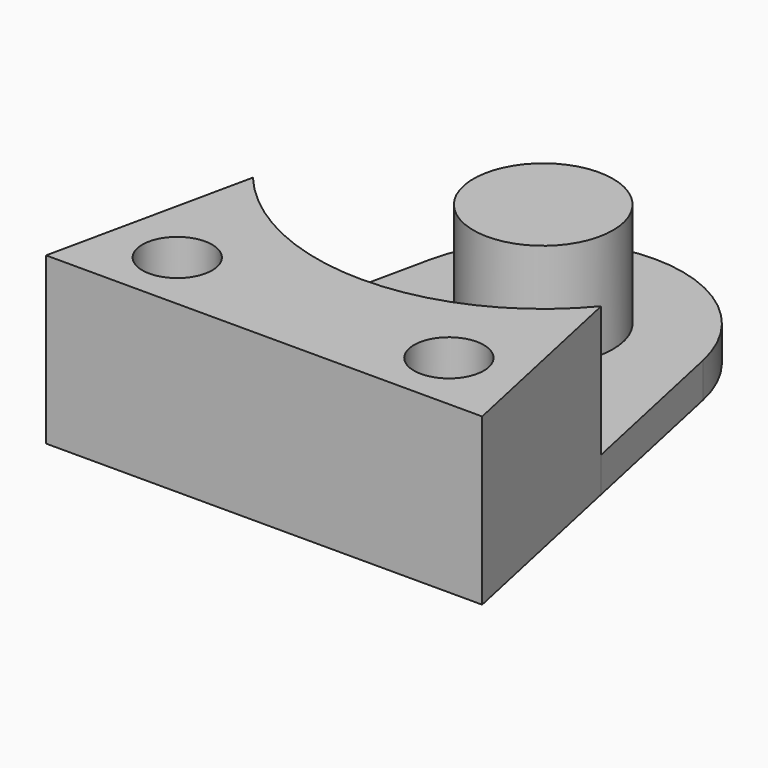
from build123d import *

# Parameters (mm, degrees)
F0_R     = 2
F1_DEPTH = 9.5
F0_R_2   = 4
F2_DEPTH = 8
F3_DEPTH = 2


with BuildPart() as f1:
    # F0 (on Top) → F1 (new body)
    with BuildSketch(Plane.XY):
        with BuildLine():
            Line((12.5, -20), (9.981460471, -8.3288922952))
            ThreePointArc((9.981460471, -8.3288922952), (0, -13), (-9.981460471, -8.3288922952))
            Line((-9.981460471, -8.3288922952), (-12.5, -20))
            Line((-12.5, -20), (0, -20))
            Line((0, -20), (12.5, -20))
        make_face()
        with Locations((-7.7868145891, -16.4918396622)):
            Circle(F0_R, mode=Mode.SUBTRACT)
        with Locations((7.7868145891, -16.4918396622)):
            Circle(F0_R, mode=Mode.SUBTRACT)
    extrude(amount=F1_DEPTH)



with BuildPart() as f2:
    # F0 (on Top) → F2 (new body)
    with BuildSketch(Plane.XY):
        Circle(F0_R_2)
    extrude(amount=F2_DEPTH)


with BuildPart() as f1_1:
    add(f1.part)

    add(f2.part)  # F3 merges F2
    # F0 (on Top) → F3 (join)
    with BuildSketch(Plane.XY):
        with BuildLine():
            Line((9.981460471, -8.3288922952), (7.8199968309, 1.6874980193))
            ThreePointArc((7.8199968309, 1.6874980193), (0, 8), (-7.8199968309, 1.6874980193))
            Line((-7.8199968309, 1.6874980193), (-9.981460471, -8.3288922952))
            ThreePointArc((-9.981460471, -8.3288922952), (0, -13), (9.981460471, -8.3288922952))
        make_face()
        Circle(F0_R_2, mode=Mode.SUBTRACT)
    extrude(amount=F3_DEPTH)


solid = f1_1.part
